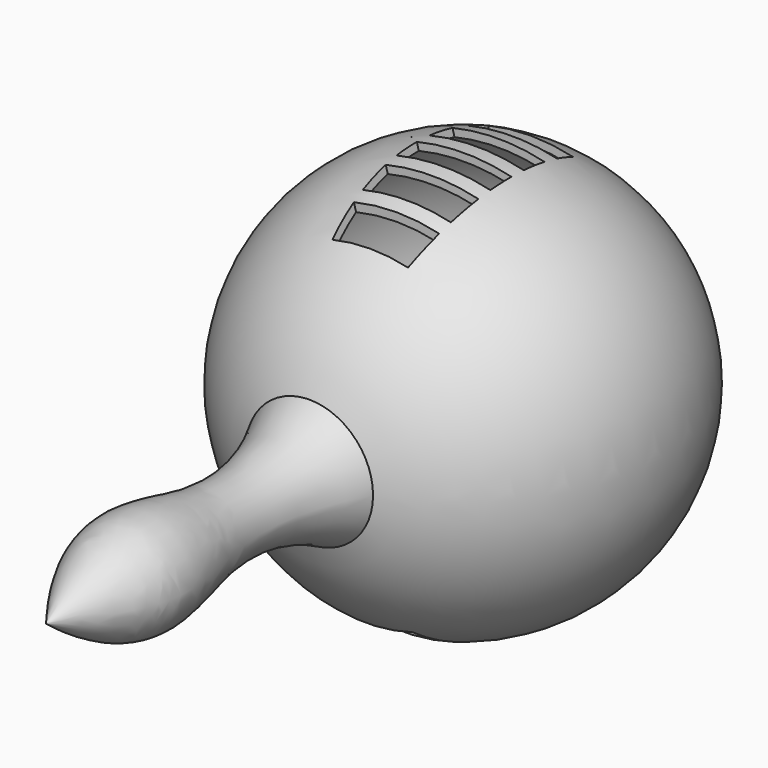
from build123d import *

# Parameters (mm, degrees)
F2_W          = 6.5152896568
F2_H          = 35.1259009913
F2_W_2        = 6.2320120633
F2_H_2        = 35.9757216647
F2_W_3        = 5.0989277661
F2_H_3        = 37.6753634773
F2_W_4        = 5.3821951151
F2_H_4        = 37.3920900747
F2_W_5        = 4.5323744416
F2_W_6        = 8.7814768776
F2_H_5        = 33.9928083122
F2_W_7        = 8.2149263471
F2_H_6        = 33.1429848447
F2_W_8        = 6.5152831376
F2_H_7        = 33.4262605757
F2_W_9        = 5.3821913898
F2_H_8        = 34.2760793865
F2_W_10       = 5.0989240408
F3_ANGLE_BACK = 15
F3_ANGLE      = 30


with BuildPart() as f1:
    # F0 (on Top) → F1 (revolve)
    with BuildSketch(Plane.XY):
        with BuildLine():
            ThreePointArc((12.5748945868, -1.5742581205), (6.3686890006, -3.0920110771), (0, -3.6022680998))
            Line((0, -3.6022680998), (0, -66.7187049985))
            add(Edge.make_bspline(
                [(12.5748945868, -1.5742581205), (7.5446593971, -10.7999522319), (5.4522164814, -26.1727952571), (13.5235138016, -47.007812037), (5.4535934363, -59.6373008539), (0, -66.7187049985)],
                knots=[0, 0, 0, 0, 0.3546204483, 0.6658717673, 1, 1, 1, 1], degree=3))
        make_face()
        with BuildLine():
            Line((0, -2.1022680998), (0, -3.6022680998))
            ThreePointArc((0, -3.6022680998), (6.3686890006, -3.0920110771), (12.5748945868, -1.5742581205))
            ThreePointArc((12.5748945868, -1.5742581205), (39.4897429773, 42.7664209008), (0, 76.3977319002))
            Line((0, 76.3977319002), (0, 74.8977319002))
            ThreePointArc((0, 74.8977319002), (38.5, 36.3977319002), (0, -2.1022680998))
        make_face()
    revolve(axis=Axis((0, -35.1604865491, 0), (0, -1, 0)))

    # F2 (on Right) → F3 (revolve, cut)
    with BuildSketch(Plane.YZ, mode=Mode.PRIVATE) as f3_sk:
        with Locations((16.7038110085, 23.7949653529)):
            Rectangle(F2_W, F2_H)
        with Locations((25.6269220263, 23.3700550161)):
            Rectangle(F2_W_2, F2_H_2)
        with Locations((34.1251250356, 22.8035089094)):
            Rectangle(F2_W_3, F2_H_3)
        with Locations((42.4816906452, 22.9451456107)):
            Rectangle(F2_W_4, F2_H_4)
        with Locations((50.8382543921, 22.8035089094)):
            Rectangle(F2_W_5, F2_H_3)
        with Locations((16.7038110085, -32.0098940283)):
            Rectangle(F2_W_6, F2_H_5)
        with Locations((28.3180186525, -31.8682561629)):
            Rectangle(F2_W_7, F2_H_6)
        with Locations((39.9322304875, -32.2931678966)):
            Rectangle(F2_W_8, F2_H_7)
        with Locations((49.8467963189, -32.1515295655)):
            Rectangle(F2_W_9, F2_H_8)
        with Locations((58.2033619285, -32.2931678966)):
            Rectangle(F2_W_10, F2_H_7)
    revolve(f3_sk.sketch.rotate(Axis((0, 50.8382543921, 3.9658271708), (0, -1, 0)), -F3_ANGLE_BACK), axis=Axis((0, 50.8382543921, 3.9658271708), (0, -1, 0)), revolution_arc=F3_ANGLE, mode=Mode.SUBTRACT)


with BuildPart() as f5:
    # F4 (on Right) → F5 (revolve)
    with BuildSketch(Plane.YZ):
        with BuildLine():
            Line((6.9420658983, -22.6963507377), (6.8355348966, -17.169564787))
            ThreePointArc((6.8355348966, -17.169564787), (4.1781596138, -19.9852064438), (6.9420658983, -22.6963507377))
        make_face()
    revolve(axis=Axis((0, 6.8888003974, -19.9329577624), (0, 0.0192718187, -0.9998142813)))


solid = Compound([f1.part, f5.part])
